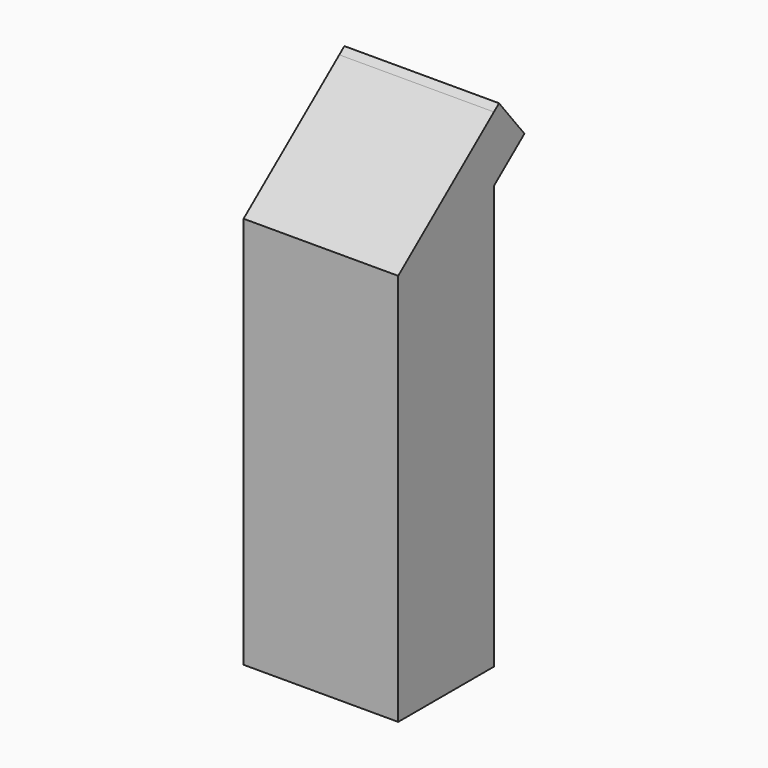
from build123d import *

# Parameters (mm, degrees)
F0_W      = 19
F0_H      = 14.7
F0_W_2    = 17
F0_H_2    = 12.7
F1_DEPTH  = 40
F3_DEPTH  = 19.001
F5_DEPTH  = 19
F6_T      = -1.5
F8_DEPTH  = 19.001
F9_W      = 19
F9_H      = 14.7
F9_W_2    = 16
F9_H_2    = 11.7
F10_DEPTH = 20


with BuildPart() as f1:
    # F0 (on Top) → F1 (new body)
    with BuildSketch(Plane.XY):
        with Locations((-8.5, 6.35)):
            Rectangle(F0_W, F0_H)
        with Locations((-8.5, 6.35)):
            Rectangle(F0_W_2, F0_H_2, mode=Mode.SUBTRACT)
        with Locations((-8.5, 6.35)):
            Rectangle(F0_W_2, F0_H_2)
    extrude(amount=F1_DEPTH)

    # F2 (on face) → F3 (cut, through all)
    with BuildSketch(Plane.YZ.offset(1)):
        Polygon((-1, 40), (-1, 28.249386698), (13.7, 40), align=None)
    extrude(amount=-F3_DEPTH, mode=Mode.SUBTRACT)

    # F4 (on face) → F5 (join)
    with BuildSketch(Plane.YZ.offset(1)):
        Polygon((18.3866723446, 43.7463451969), (13.7, 40), (13.7, 32), (18.3866723446, 35.7463451969), align=None)
    extrude(amount=-F5_DEPTH)

    # F6
    f6_openings = [f1.faces().sort_by_distance(p)[0] for p in [
        (-8.5, 18.386672, 39.746345),
        (-8.5, 6.35, 0),
    ]]
    offset(amount=F6_T, openings=f6_openings, kind=Kind.INTERSECTION)

    # F7 (on face) → F8 (cut, through all)
    with BuildSketch(Plane(origin=(-18, 0, 0), x_dir=(0, -1, 0), z_dir=(-1, 0, 0))):
        Polygon((-18.3866723446, 43.7463451969), (-18.3866723446, 35.7463451969), (-14.4849184718, 40.627433567), align=None)
    extrude(amount=-F8_DEPTH, mode=Mode.SUBTRACT)

    # F9 (on face) → F10 (join)
    with BuildSketch(Plane(origin=(0, 0, 0), x_dir=(1, 0, 0), z_dir=(0, 0, -1))):
        with Locations((-8.5, -6.35)):
            Rectangle(F9_W, F9_H)
        with Locations((-8.5, -6.35)):
            Rectangle(F9_W_2, F9_H_2, mode=Mode.SUBTRACT)
    extrude(amount=F10_DEPTH)


solid = f1.part
